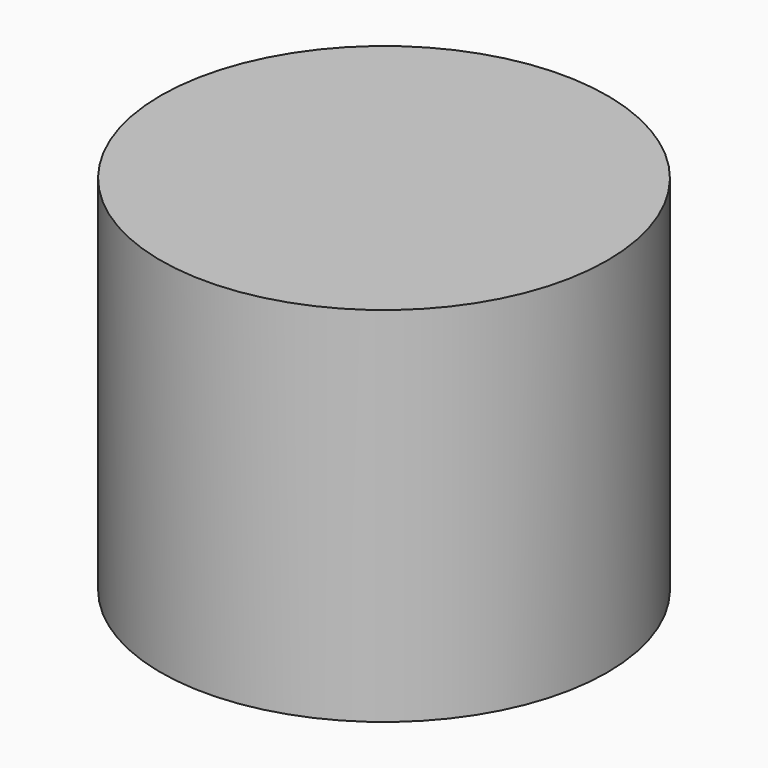
from build123d import *

# Parameters (mm, degrees)
F0_R     = 23.459989
F1_DEPTH = 80.613591
F2_T     = -38.1


with BuildPart() as f1:
    # F0 (on Top) → F1 (new body)
    with BuildSketch(Plane.XY):
        with Locations((12.02203, 24.658363)):
            Circle(F0_R)
    extrude(amount=F1_DEPTH)

    # F2
    f2_openings = [f1.faces().sort_by_distance(p)[0] for p in [
        (-11.437959, 24.658363, 40.306795),
        (12.02203, 24.658363, 80.613591),
    ]]
    offset(amount=F2_T, openings=f2_openings)


solid = f1.part
